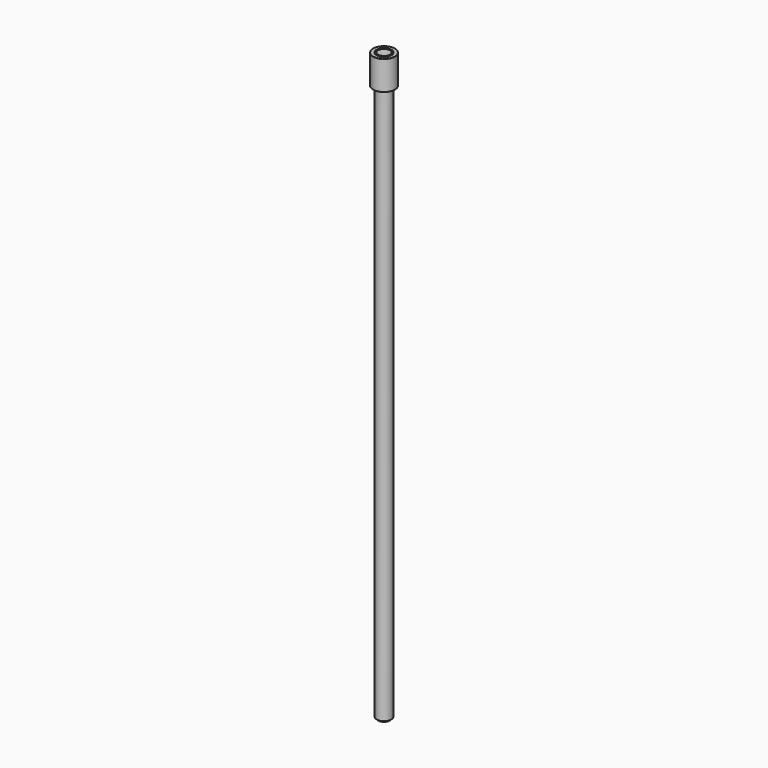
from build123d import *

# Parameters (mm, degrees)
F0_R     = 4.7625
F0_R_2   = 3.175
F1_DEPTH = 12.7
F2_R     = 0.127
F3_R     = 3.175
F4_DEPTH = 254
F5_SIZE  = 0.635


with BuildPart() as f1:
    # F0 (on Top) → F1 (new body)
    with BuildSketch(Plane.XY):
        with Locations((0.48473, 0)):
            Circle(F0_R)
        with Locations((0.48473, 0)):
            Circle(F0_R_2, mode=Mode.SUBTRACT)
    extrude(amount=F1_DEPTH)

    # F2
    f2_edges = [f1.edges().sort_by_distance(p)[0] for p in [
        (-4.27777, 0, 0),
        (-2.69027, 0, 0),
        (-2.69027, 0, 12.7),
        (-4.27777, 0, 12.7),
    ]]
    fillet(f2_edges, radius=F2_R)


with BuildPart() as f4:
    # F3 (on face) → F4 (new body)
    with BuildSketch(Plane.XY.offset(12.7)):
        with Locations((0.48473, 0)):
            Circle(F3_R)
    extrude(amount=-F4_DEPTH)

    # F5
    f5_edges = [f4.edges().sort_by_distance(p)[0] for p in [
        (-2.69027, 0, -241.3),
        (-2.69027, 0, 12.7),
    ]]
    chamfer(f5_edges, length=F5_SIZE)


solid = Compound([f1.part, f4.part])
